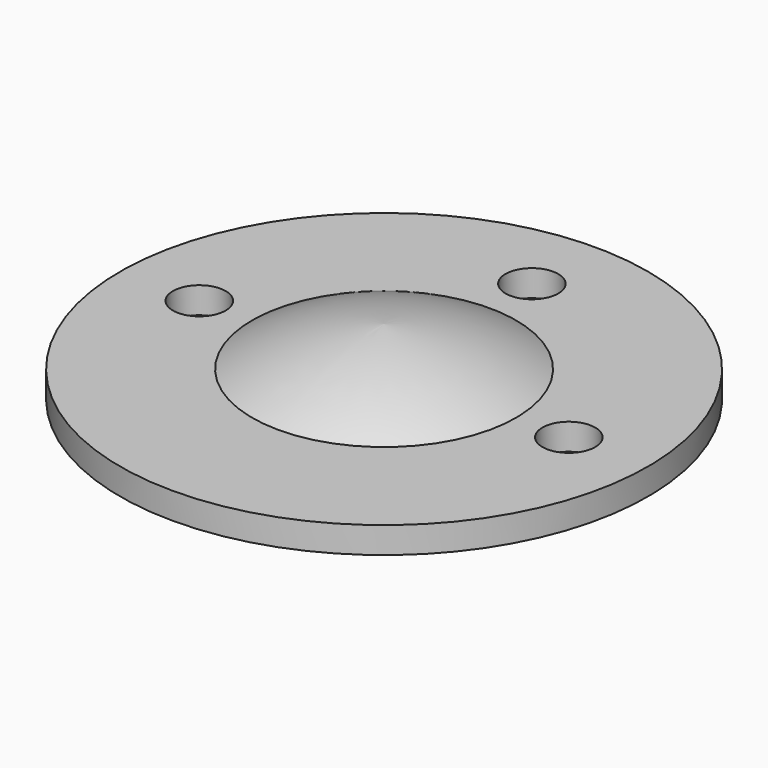
from build123d import *

# Parameters (mm, degrees)
F2_R     = 1
F3_DEPTH = 5


with BuildPart() as f1:
    # F0 (on Right) → F1 (revolve)
    with BuildSketch(Plane.YZ):
        with BuildLine():
            Line((-5, 0), (0, 0))
            Line((0, 0), (0, 3.5))
            ThreePointArc((0, 3.5), (-2.5809, 3.019668), (-5, 2))
            Line((-5, 2), (-10, 2))
            Line((-10, 2), (-10, 1))
            Line((-10, 1), (-5, 1))
            Line((-5, 1), (-5, 0))
        make_face()
    revolve(axis=Axis((0, 0, 1.75), (0, 0, 1)))

    # F2 (on face) → F3 (cut)
    with BuildSketch(Plane.XY.offset(2)):
        with Locations((0, 7)):
            Circle(F2_R)
        with Locations((-7, 0)):
            Circle(F2_R)
        with Locations((7, 0)):
            Circle(F2_R)
    extrude(amount=-F3_DEPTH, mode=Mode.SUBTRACT)


solid = f1.part
